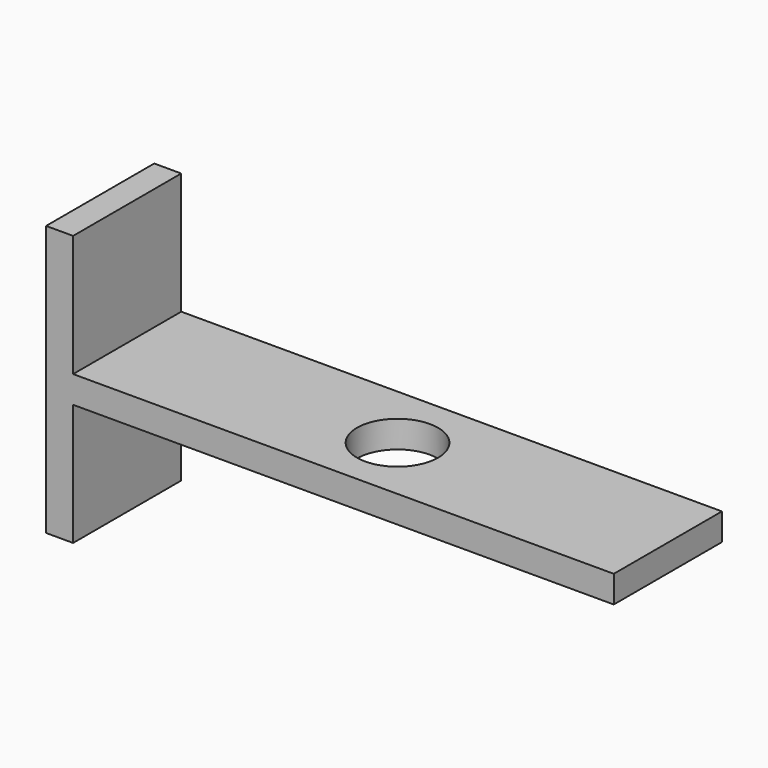
from build123d import *

# Parameters (mm, degrees)
F0_W     = 200
F0_H     = 50
F0_R     = 15
F1_DEPTH = 5
F2_W     = 50
F2_H     = 100
F3_DEPTH = 10


with BuildPart() as f1:
    # F0 (on Top) → F1 (new body, symmetric)
    with BuildSketch(Plane.XY):
        Rectangle(F0_W, F0_H)
        Circle(F0_R, mode=Mode.SUBTRACT)
    extrude(amount=F1_DEPTH, both=True)

    # F2 (on face) → F3 (join)
    with BuildSketch(Plane(origin=(-100, 0, 0), x_dir=(0, -1, 0), z_dir=(-1, 0, 0))):
        Rectangle(F2_W, F2_H)
    extrude(amount=F3_DEPTH)


solid = f1.part
